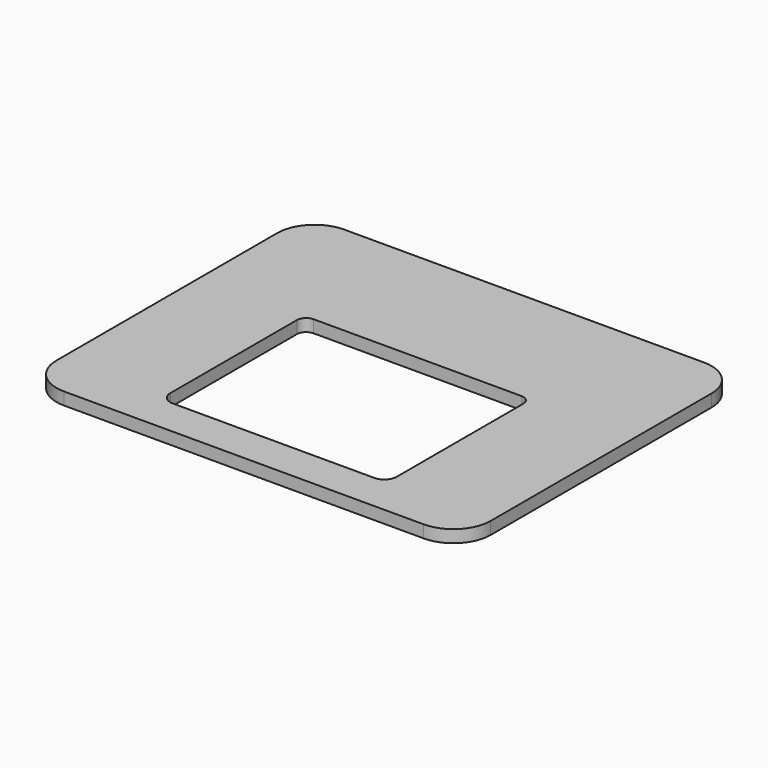
from build123d import *

# Parameters (mm, degrees)
CYLINDER081_R          = 4
CYLINDER081_DEPTH      = 10
BOX058_W               = 4
BOX058_H               = 4
BOX058_DEPTH           = 10
CUT030_PLACEMENT_ANGLE = 180
CYLINDER077_R          = 3
CYLINDER077_DEPTH      = 10
BOX054_W               = 3
BOX054_H               = 3
BOX054_DEPTH           = 10
CYLINDER078_R          = 3
CYLINDER078_DEPTH      = 10
BOX055_W               = 3
BOX055_H               = 3
BOX055_DEPTH           = 10
CUT027_PLACEMENT_ANGLE = 270
CYLINDER080_R          = 4
CYLINDER080_DEPTH      = 10
BOX057_W               = 4
BOX057_H               = 4
BOX057_DEPTH           = 10
CUT029_PLACEMENT_ANGLE = 90
BOX053_W               = 73
BOX053_H               = 58
BOX053_DEPTH           = 10
CYLINDER074_R          = 12
CYLINDER074_DEPTH      = 10
BOX050_W               = 12
BOX050_H               = 12
BOX050_DEPTH           = 4
CUT022_PLACEMENT_ANGLE = 90
CYLINDER075_R          = 12
CYLINDER075_DEPTH      = 10
BOX051_W               = 12
BOX051_H               = 12
BOX051_DEPTH           = 4
CUT023_PLACEMENT_ANGLE = 180
CYLINDER076_R          = 12
CYLINDER076_DEPTH      = 10
BOX052_W               = 12
BOX052_H               = 12
BOX052_DEPTH           = 4
CUT024_PLACEMENT_ANGLE = 90
CYLINDER073_R          = 12
CYLINDER073_DEPTH      = 10
BOX049_W               = 12
BOX049_H               = 12
BOX049_DEPTH           = 4
BOX048_W               = 140
BOX048_H               = 113
BOX048_DEPTH           = 4


with BuildPart() as cylinder083:
    # Cylinder081 → Cylinder081 (new body)
    with BuildSketch(Plane(origin=(36.5, 67, 26), x_dir=(1, 0, 0), z_dir=(0, 0, 1))):
        Circle(CYLINDER081_R)
    extrude(amount=CYLINDER081_DEPTH)


with BuildPart() as obj1:
    # Box058 → Box058 (new body)
    with BuildSketch(Plane(origin=(32.5, 67, 26), x_dir=(1, 0, 0), z_dir=(0, 0, 1))):
        with Locations((2, 2)):
            Rectangle(BOX058_W, BOX058_H)
    extrude(amount=BOX058_DEPTH)

    # Cut030: cut Cylinder083
    add(cylinder083.part, mode=Mode.SUBTRACT)


with BuildPart() as obj1_1:
    # Cut030 placement: moved
    add(obj1.part.moved(Location((139, 83, 0))).rotate(Axis((139, 83, 0), (0, 0, 1)), CUT030_PLACEMENT_ANGLE))


with BuildPart() as cylinder079:
    # Cylinder077 → Cylinder077 (new body)
    with BuildSketch(Plane(origin=(36.5, 67, 26), x_dir=(1, 0, 0), z_dir=(0, 0, 1))):
        Circle(CYLINDER077_R)
    extrude(amount=CYLINDER077_DEPTH)


with BuildPart() as obj2:
    # Box054 → Box054 (new body)
    with BuildSketch(Plane(origin=(33.5, 67, 26), x_dir=(1, 0, 0), z_dir=(0, 0, 1))):
        with Locations((1.5, 1.5)):
            Rectangle(BOX054_W, BOX054_H)
    extrude(amount=BOX054_DEPTH)

    # Cut026: cut Cylinder079
    add(cylinder079.part, mode=Mode.SUBTRACT)


with BuildPart() as cylinder080:
    # Cylinder078 → Cylinder078 (new body)
    with BuildSketch(Plane(origin=(36.5, 67, 26), x_dir=(1, 0, 0), z_dir=(0, 0, 1))):
        Circle(CYLINDER078_R)
    extrude(amount=CYLINDER078_DEPTH)


with BuildPart() as obj3:
    # Box055 → Box055 (new body)
    with BuildSketch(Plane(origin=(33.5, 67, 26), x_dir=(1, 0, 0), z_dir=(0, 0, 1))):
        with Locations((1.5, 1.5)):
            Rectangle(BOX055_W, BOX055_H)
    extrude(amount=BOX055_DEPTH)

    # Cut027: cut Cylinder080
    add(cylinder080.part, mode=Mode.SUBTRACT)


with BuildPart() as obj3_1:
    # Cut027 placement: moved
    add(obj3.part.moved(Location((36.5, 103.5, 0))).rotate(Axis((36.5, 103.5, 0), (0, 0, 1)), CUT027_PLACEMENT_ANGLE))


with BuildPart() as cylinder082:
    # Cylinder080 → Cylinder080 (new body)
    with BuildSketch(Plane(origin=(36.5, 67, 26), x_dir=(1, 0, 0), z_dir=(0, 0, 1))):
        Circle(CYLINDER080_R)
    extrude(amount=CYLINDER080_DEPTH)


with BuildPart() as displaycuts:
    # Box057 → Box057 (new body)
    with BuildSketch(Plane(origin=(32.5, 67, 26), x_dir=(1, 0, 0), z_dir=(0, 0, 1))):
        with Locations((2, 2)):
            Rectangle(BOX057_W, BOX057_H)
    extrude(amount=BOX057_DEPTH)

    # Cut029: cut Cylinder082
    add(cylinder082.part, mode=Mode.SUBTRACT)


with BuildPart() as displaycuts_1:
    # Cut029 placement: moved
    add(displaycuts.part.moved(Location((104.5, -20.5, 0))).rotate(Axis((104.5, -20.5, 0), (0, 0, 1)), CUT029_PLACEMENT_ANGLE))

    # Fusion041: union obj1, obj2, obj3
    add(obj1_1.part)
    add(obj2.part)
    add(obj3_1.part)


with BuildPart() as topcut:
    # Box053 → Box053 (new body)
    with BuildSketch(Plane(origin=(33.5, 12, 26), x_dir=(1, 0, 0), z_dir=(0, 0, 1))):
        with Locations((36.5, 29)):
            Rectangle(BOX053_W, BOX053_H)
    extrude(amount=BOX053_DEPTH)

    # Cut031: cut displayCuts
    add(displaycuts_1.part, mode=Mode.SUBTRACT)


with BuildPart() as cylinder076:
    # Cylinder074 → Cylinder074 (new body)
    with BuildSketch(Plane(origin=(12, 12, 0), x_dir=(1, 0, 0), z_dir=(0, 0, 1))):
        Circle(CYLINDER074_R)
    extrude(amount=CYLINDER074_DEPTH)


with BuildPart() as cutout006:
    # Box050 → Box050 (new body)
    with BuildSketch(Plane.XY):
        with Locations((6, 6)):
            Rectangle(BOX050_W, BOX050_H)
    extrude(amount=BOX050_DEPTH)

    # Cut022: cut Cylinder076
    add(cylinder076.part, mode=Mode.SUBTRACT)


with BuildPart() as cutout006_1:
    # Cut022 placement: moved
    add(cutout006.part.moved(Location((140, 0, 0))).rotate(Axis((140, 0, 0), (0, 0, 1)), CUT022_PLACEMENT_ANGLE))


with BuildPart() as cylinder077:
    # Cylinder075 → Cylinder075 (new body)
    with BuildSketch(Plane(origin=(12, 12, 0), x_dir=(1, 0, 0), z_dir=(0, 0, 1))):
        Circle(CYLINDER075_R)
    extrude(amount=CYLINDER075_DEPTH)


with BuildPart() as cutout007:
    # Box051 → Box051 (new body)
    with BuildSketch(Plane.XY):
        with Locations((6, 6)):
            Rectangle(BOX051_W, BOX051_H)
    extrude(amount=BOX051_DEPTH)

    # Cut023: cut Cylinder077
    add(cylinder077.part, mode=Mode.SUBTRACT)


with BuildPart() as cutout007_1:
    # Cut023 placement: moved
    add(cutout007.part.moved(Location((140, 113, 0))).rotate(Axis((140, 113, 0), (0, 0, 1)), CUT023_PLACEMENT_ANGLE))


with BuildPart() as cylinder078:
    # Cylinder076 → Cylinder076 (new body)
    with BuildSketch(Plane(origin=(12, 12, 0), x_dir=(1, 0, 0), z_dir=(0, 0, 1))):
        Circle(CYLINDER076_R)
    extrude(amount=CYLINDER076_DEPTH)


with BuildPart() as cutout008:
    # Box052 → Box052 (new body)
    with BuildSketch(Plane.XY):
        with Locations((6, 6)):
            Rectangle(BOX052_W, BOX052_H)
    extrude(amount=BOX052_DEPTH)

    # Cut024: cut Cylinder078
    add(cylinder078.part, mode=Mode.SUBTRACT)


with BuildPart() as cutout008_1:
    # Cut024 placement: moved
    add(cutout008.part.moved(Location((0, 113, 0))).rotate(Axis((0, 113, 0), (0, 0, -1)), CUT024_PLACEMENT_ANGLE))


with BuildPart() as cylinder075:
    # Cylinder073 → Cylinder073 (new body)
    with BuildSketch(Plane(origin=(12, 12, 0), x_dir=(1, 0, 0), z_dir=(0, 0, 1))):
        Circle(CYLINDER073_R)
    extrude(amount=CYLINDER073_DEPTH)


with BuildPart() as cutout009:
    # Box049 → Box049 (new body)
    with BuildSketch(Plane.XY):
        with Locations((6, 6)):
            Rectangle(BOX049_W, BOX049_H)
    extrude(amount=BOX049_DEPTH)

    # Cut021: cut Cylinder075
    add(cylinder075.part, mode=Mode.SUBTRACT)

    # Fusion040: union cutOut006, cutOut007, cutOut008
    add(cutout006_1.part)
    add(cutout007_1.part)
    add(cutout008_1.part)


with BuildPart() as top002:
    # Box048 → Box048 (new body)
    with BuildSketch(Plane.XY):
        with Locations((70, 56.5)):
            Rectangle(BOX048_W, BOX048_H)
    extrude(amount=BOX048_DEPTH)

    # Cut025: cut cutOut009
    add(cutout009.part, mode=Mode.SUBTRACT)


with BuildPart() as top002_1:
    # Cut025 placement: moved
    add(top002.part.moved(Location((0, 0, 26))))

    # Cut032: cut topCut
    add(topcut.part, mode=Mode.SUBTRACT)


solid = top002_1.part
